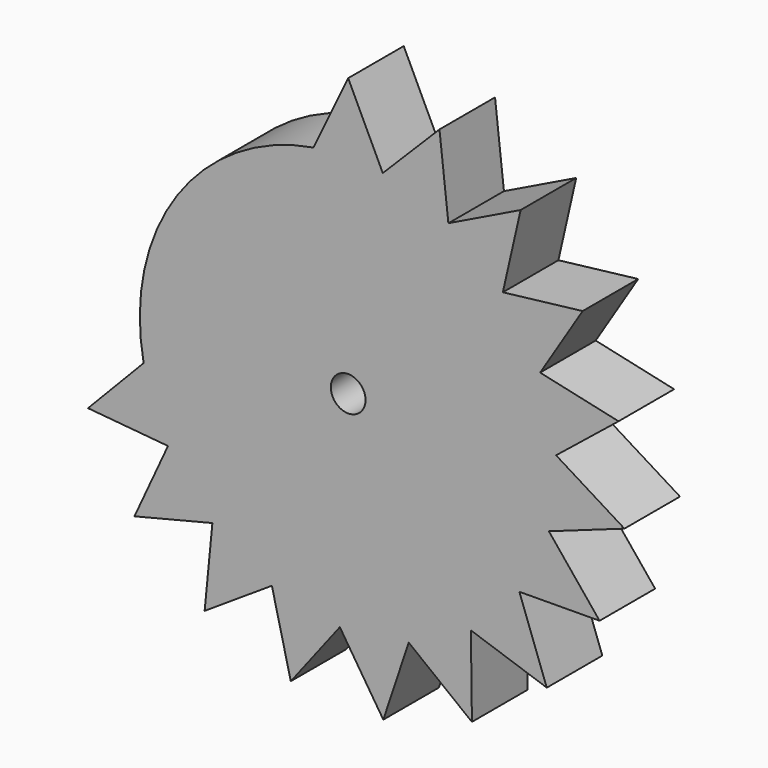
from build123d import *

# Parameters (mm, degrees)
F1_DEPTH = 12.7
F2_R     = 3.175
F3_DEPTH = 25.4


with BuildPart() as f1:
    # F0 (on Front) → F1 (new body)
    with BuildSketch(Plane.XZ):
        with BuildLine():
            ThreePointArc((37.8926924679, -3.9691129401), (38.0481378193, -1.9872615545), (38.1, 0))
            ThreePointArc((38.1, 0), (38.0802796265, 1.2256849392), (38.0211389202, 2.4501010613))
            ThreePointArc((38.0211389202, 2.4501010613), (37.6847159913, 5.6100071882), (37.0861377222, 8.7308870599))
            Line((37.0861377222, 8.7308870599), (0, 0))
            Line((0, 0), (37.8926924679, -3.9691129401))
        make_face()
        with BuildLine():
            ThreePointArc((38.0211389202, 2.4501010613), (38.0802796265, 1.2256849392), (38.1, 0))
            ThreePointArc((38.1, 0), (38.0481378193, -1.9872615545), (37.8926924679, -3.9691129401))
            Line((37.8926924679, -3.9691129401), (50.5235899572, -5.2921505868))
            Line((50.5235899572, -5.2921505868), (38.0211389202, 2.4501010613))
        make_face()
        with BuildLine():
            ThreePointArc((37.0861377222, 8.7308870599), (37.6847159913, 5.6100071882), (38.0211389202, 2.4501010613))
            Line((38.0211389202, 2.4501010613), (49.4481836296, 11.6411827465))
            Line((49.4481836296, 11.6411827465), (37.0861377222, 8.7308870599))
        make_face()
        with BuildLine():
            Line((50.5235899572, -5.2921505868), (37.8926924679, -3.9691129401))
            ThreePointArc((37.8926924679, -3.9691129401), (37.4301319875, -7.1130316604), (36.7071871912, -10.2074682713))
            Line((36.7071871912, -10.2074682713), (50.5235899572, -5.2921505868))
        make_face()
        with BuildLine():
            ThreePointArc((36.7071871912, -10.2074682713), (37.4301319875, -7.1130316604), (37.8926924679, -3.9691129401))
            Line((37.8926924679, -3.9691129401), (0, 0))
            Line((0, 0), (34.4830101741, -16.2028395455))
            ThreePointArc((34.4830101741, -16.2028395455), (35.7211025782, -13.2518991317), (36.7071871912, -10.2074682713))
        make_face()
        with BuildLine():
            Line((0, 0), (37.0861377222, 8.7308870599))
            ThreePointArc((37.0861377222, 8.7308870599), (36.22262987, 11.8123276834), (35.103576016, 14.8104338522))
            ThreePointArc((35.103576016, 14.8104338522), (33.7472734302, 17.6842171449), (32.1562064918, 20.4349794239))
            Line((32.1562064918, 20.4349794239), (0, 0))
        make_face()
        with BuildLine():
            ThreePointArc((35.103576016, 14.8104338522), (36.22262987, 11.8123276834), (37.0861377222, 8.7308870599))
            Line((37.0861377222, 8.7308870599), (49.4481836296, 11.6411827465))
            Line((49.4481836296, 11.6411827465), (35.103576016, 14.8104338522))
        make_face()
        with BuildLine():
            Line((45.9773468987, -21.6037860606), (36.7071871912, -10.2074682713))
            ThreePointArc((36.7071871912, -10.2074682713), (35.7211025782, -13.2518991317), (34.4830101741, -16.2028395455))
            Line((34.4830101741, -16.2028395455), (45.9773468987, -21.6037860606))
        make_face()
        with BuildLine():
            Line((-35.6836687657, -13.3523699552), (0, 0))
            Line((0, 0), (12.5223688742, 35.9833333333))
            ThreePointArc((12.5223688742, 35.9833333333), (9.4585051951, 36.9072713632), (6.3279129766, 37.5708333333))
            ThreePointArc((6.3279129766, 37.5708333333), (3.175, 37.9674778593), (0, 38.1))
            ThreePointArc((0, 38.1), (-3.175, 37.9674778593), (-6.3279129766, 37.5708333333))
            ThreePointArc((-6.3279129766, 37.5708333333), (-31.3076292243, 21.7127232827), (-37.4057167198, -7.2403284924))
            ThreePointArc((-37.4057167198, -7.2403284924), (-36.6722487771, -10.3322877248), (-35.6836687657, -13.3523699552))
        make_face()
        with BuildLine():
            Line((12.5223688742, 35.9833333333), (0, 0))
            Line((0, 0), (23.6533634291, 29.8685185185))
            ThreePointArc((23.6533634291, 29.8685185185), (21.0633861266, 31.7481301006), (18.3248093399, 33.403762702))
            ThreePointArc((18.3248093399, 33.403762702), (15.4774237877, 34.8146427943), (12.5223688742, 35.9833333333))
        make_face()
        with BuildLine():
            Line((23.6533634291, 29.8685185185), (0, 0))
            Line((0, 0), (32.1562064918, 20.4349794239))
            ThreePointArc((32.1562064918, 20.4349794239), (30.3278908217, 23.0614188268), (28.2856157767, 25.5251628816))
            ThreePointArc((28.2856157767, 25.5251628816), (26.0601338212, 27.7935140855), (23.6533634291, 29.8685185185))
        make_face()
        with BuildLine():
            Line((34.4830101741, -16.2028395455), (0, 0))
            Line((0, 0), (27.2418823053, -26.6362506458))
            ThreePointArc((27.2418823053, -26.6362506458), (29.3810806272, -24.2561765573), (31.3129991985, -21.7049782583))
            ThreePointArc((31.3129991985, -21.7049782583), (33.0128322769, -19.0200658531), (34.4830101741, -16.2028395455))
        make_face()
        with BuildLine():
            Line((27.2418823053, -26.6362506458), (0, 0))
            Line((0, 0), (16.9738786248, -34.110078341))
            ThreePointArc((16.9738786248, -34.110078341), (19.776494162, -32.5653232543), (22.4395890727, -30.7908239943))
            ThreePointArc((22.4395890727, -30.7908239943), (24.9274400911, -28.8137593955), (27.2418823053, -26.6362506458))
        make_face()
        with BuildLine():
            Line((16.9738786248, -34.110078341), (0, 0))
            Line((0, 0), (4.8198884305, -37.7938973317))
            ThreePointArc((4.8198884305, -37.7938973317), (7.9745194566, -37.2561007009), (11.0728912721, -36.4554670643))
            ThreePointArc((11.0728912721, -36.4554670643), (14.0723323397, -35.4059241162), (16.9738786248, -34.110078341))
        make_face()
        with BuildLine():
            Line((4.8198884305, -37.7938973317), (0, 0))
            Line((0, 0), (-7.8696449228, -37.2783943966))
            ThreePointArc((-7.8696449228, -37.2783943966), (-4.7135129662, -37.8073114029), (-1.5241277809, -38.0695026827))
            ThreePointArc((-1.5241277809, -38.0695026827), (1.6536321061, -38.0640972684), (4.8198884305, -37.7938973317))
        make_face()
        with BuildLine():
            Line((-7.8696449228, -37.2783943966), (0, 0))
            Line((0, 0), (-19.6847732846, -32.6208476397))
            ThreePointArc((-19.6847732846, -32.6208476397), (-16.8778217261, -34.1577097268), (-13.9517993027, -35.4535935586))
            ThreePointArc((-13.9517993027, -35.4535935586), (-10.9488050282, -36.4929262797), (-7.8696449228, -37.2783943966))
        make_face()
        with BuildLine():
            Line((-19.6847732846, -32.6208476397), (0, 0))
            Line((0, 0), (-29.3127046149, -24.3387622561))
            ThreePointArc((-29.3127046149, -24.3387622561), (-27.1668169608, -26.71280697), (-24.829270902, -28.8983962613))
            ThreePointArc((-24.829270902, -28.8983962613), (-22.3347082705, -30.8669857043), (-19.6847732846, -32.6208476397))
        make_face()
        with BuildLine():
            Line((-29.3127046149, -24.3387622561), (0, 0))
            Line((0, 0), (-35.6836687657, -13.3523699552))
            ThreePointArc((-35.6836687657, -13.3523699552), (-34.4372769777, -16.2998145498), (-32.9479346233, -19.1322660461))
            ThreePointArc((-32.9479346233, -19.1322660461), (-31.2389772605, -21.8113800507), (-29.3127046149, -24.3387622561))
        make_face()
        with BuildLine():
            ThreePointArc((32.1562064918, 20.4349794239), (33.7472734302, 17.6842171449), (35.103576016, 14.8104338522))
            Line((35.103576016, 14.8104338522), (42.8749419891, 27.2466392318))
            Line((42.8749419891, 27.2466392318), (32.1562064918, 20.4349794239))
        make_face()
        with BuildLine():
            Line((45.9773468987, -21.6037860606), (34.4830101741, -16.2028395455))
            ThreePointArc((34.4830101741, -16.2028395455), (33.0128322769, -19.0200658531), (31.3129991985, -21.7049782583))
            Line((31.3129991985, -21.7049782583), (45.9773468987, -21.6037860606))
        make_face()
        with BuildLine():
            Line((16.6964918323, 47.9777777778), (12.5223688742, 35.9833333333))
            ThreePointArc((12.5223688742, 35.9833333333), (15.4774237877, 34.8146427943), (18.3248093399, 33.403762702))
            Line((18.3248093399, 33.403762702), (16.6964918323, 47.9777777778))
        make_face()
        with BuildLine():
            ThreePointArc((6.3279129766, 37.5708333333), (9.4585051951, 36.9072713632), (12.5223688742, 35.9833333333))
            Line((12.5223688742, 35.9833333333), (16.6964918323, 47.9777777778))
            Line((16.6964918323, 47.9777777778), (6.3279129766, 37.5708333333))
        make_face()
        with BuildLine():
            Line((31.5378179055, 39.824691358), (23.6533634291, 29.8685185185))
            ThreePointArc((23.6533634291, 29.8685185185), (26.0601338212, 27.7935140855), (28.2856157767, 25.5251628816))
            Line((28.2856157767, 25.5251628816), (31.5378179055, 39.824691358))
        make_face()
        with BuildLine():
            ThreePointArc((18.3248093399, 33.403762702), (21.0633861266, 31.7481301006), (23.6533634291, 29.8685185185))
            Line((23.6533634291, 29.8685185185), (31.5378179055, 39.824691358))
            Line((31.5378179055, 39.824691358), (18.3248093399, 33.403762702))
        make_face()
        with BuildLine():
            ThreePointArc((28.2856157767, 25.5251628816), (30.3278908217, 23.0614188268), (32.1562064918, 20.4349794239))
            Line((32.1562064918, 20.4349794239), (42.8749419891, 27.2466392318))
            Line((42.8749419891, 27.2466392318), (28.2856157767, 25.5251628816))
        make_face()
        with BuildLine():
            Line((36.3225097404, -35.515000861), (27.2418823053, -26.6362506458))
            ThreePointArc((27.2418823053, -26.6362506458), (24.9274400911, -28.8137593955), (22.4395890727, -30.7908239943))
            Line((22.4395890727, -30.7908239943), (36.3225097404, -35.515000861))
        make_face()
        with BuildLine():
            ThreePointArc((31.3129991985, -21.7049782583), (29.3810806272, -24.2561765573), (27.2418823053, -26.6362506458))
            Line((27.2418823053, -26.6362506458), (36.3225097404, -35.515000861))
            Line((36.3225097404, -35.515000861), (31.3129991985, -21.7049782583))
        make_face()
        with BuildLine():
            Line((22.6318381664, -45.4801044547), (16.9738786248, -34.110078341))
            ThreePointArc((16.9738786248, -34.110078341), (14.0723323397, -35.4059241162), (11.0728912721, -36.4554670643))
            Line((11.0728912721, -36.4554670643), (22.6318381664, -45.4801044547))
        make_face()
        with BuildLine():
            ThreePointArc((22.4395890727, -30.7908239943), (19.776494162, -32.5653232543), (16.9738786248, -34.110078341))
            Line((16.9738786248, -34.110078341), (22.6318381664, -45.4801044547))
            Line((22.6318381664, -45.4801044547), (22.4395890727, -30.7908239943))
        make_face()
        with BuildLine():
            Line((6.4265179073, -50.3918631089), (4.8198884305, -37.7938973317))
            ThreePointArc((4.8198884305, -37.7938973317), (1.6536321061, -38.0640972684), (-1.5241277809, -38.0695026827))
            Line((-1.5241277809, -38.0695026827), (6.4265179073, -50.3918631089))
        make_face()
        with BuildLine():
            ThreePointArc((11.0728912721, -36.4554670643), (7.9745194566, -37.2561007009), (4.8198884305, -37.7938973317))
            Line((4.8198884305, -37.7938973317), (6.4265179073, -50.3918631089))
            Line((6.4265179073, -50.3918631089), (11.0728912721, -36.4554670643))
        make_face()
        with BuildLine():
            Line((-10.4928598971, -49.7045258621), (-7.8696449228, -37.2783943966))
            ThreePointArc((-7.8696449228, -37.2783943966), (-10.9488050282, -36.4929262797), (-13.9517993027, -35.4535935586))
            Line((-13.9517993027, -35.4535935586), (-10.4928598971, -49.7045258621))
        make_face()
        with BuildLine():
            ThreePointArc((-1.5241277809, -38.0695026827), (-4.7135129662, -37.8073114029), (-7.8696449228, -37.2783943966))
            Line((-7.8696449228, -37.2783943966), (-10.4928598971, -49.7045258621))
            Line((-10.4928598971, -49.7045258621), (-1.5241277809, -38.0695026827))
        make_face()
        with BuildLine():
            Line((-26.2463643795, -43.4944635196), (-19.6847732846, -32.6208476397))
            ThreePointArc((-19.6847732846, -32.6208476397), (-22.3347082705, -30.8669857043), (-24.829270902, -28.8983962613))
            Line((-24.829270902, -28.8983962613), (-26.2463643795, -43.4944635196))
        make_face()
        with BuildLine():
            ThreePointArc((-13.9517993027, -35.4535935586), (-16.8778217261, -34.1577097268), (-19.6847732846, -32.6208476397))
            Line((-19.6847732846, -32.6208476397), (-26.2463643795, -43.4944635196))
            Line((-26.2463643795, -43.4944635196), (-13.9517993027, -35.4535935586))
        make_face()
        with BuildLine():
            Line((-39.0836061532, -32.4516830082), (-29.3127046149, -24.3387622561))
            ThreePointArc((-29.3127046149, -24.3387622561), (-31.2389772605, -21.8113800507), (-32.9479346233, -19.1322660461))
            Line((-32.9479346233, -19.1322660461), (-39.0836061532, -32.4516830082))
        make_face()
        with BuildLine():
            ThreePointArc((-24.829270902, -28.8983962613), (-27.1668169608, -26.71280697), (-29.3127046149, -24.3387622561))
            Line((-29.3127046149, -24.3387622561), (-39.0836061532, -32.4516830082))
            Line((-39.0836061532, -32.4516830082), (-24.829270902, -28.8983962613))
        make_face()
        with BuildLine():
            Line((-47.5782250209, -17.8031599403), (-35.6836687657, -13.3523699552))
            ThreePointArc((-35.6836687657, -13.3523699552), (-36.6722487771, -10.3322877248), (-37.4057167198, -7.2403284924))
            Line((-37.4057167198, -7.2403284924), (-47.5782250209, -17.8031599403))
        make_face()
        with BuildLine():
            ThreePointArc((-32.9479346233, -19.1322660461), (-34.4372769777, -16.2998145498), (-35.6836687657, -13.3523699552))
            Line((-35.6836687657, -13.3523699552), (-47.5782250209, -17.8031599403))
            Line((-47.5782250209, -17.8031599403), (-32.9479346233, -19.1322660461))
        make_face()
        with BuildLine():
            ThreePointArc((0, 38.1), (3.175, 37.9674778593), (6.3279129766, 37.5708333333))
            Line((6.3279129766, 37.5708333333), (0, 50.8))
            Line((0, 50.8), (0, 38.1))
        make_face()
        with BuildLine():
            ThreePointArc((-6.3279129766, 37.5708333333), (-3.175, 37.9674778593), (0, 38.1))
            Line((0, 38.1), (0, 50.8))
            Line((0, 50.8), (-6.3279129766, 37.5708333333))
        make_face()
    extrude(amount=F1_DEPTH)

    # F2 (on face) → F3 (cut)
    with BuildSketch(Plane.XZ.offset(12.7)):
        Circle(F2_R)
    extrude(amount=-F3_DEPTH, mode=Mode.SUBTRACT)


solid = f1.part
